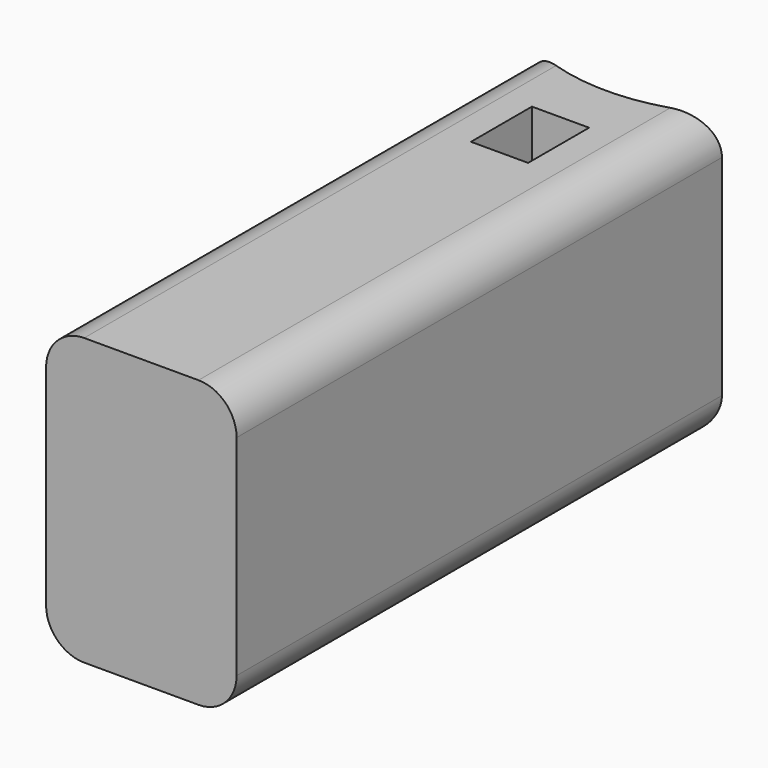
from build123d import *

# Parameters (mm, degrees)
F0_W     = 25.4
F0_H     = 82.55
F1_DEPTH = 38.1
F3_DEPTH = 76.2
F4_W     = 7.62
F4_H     = 10.16
F5_DEPTH = 25.4
F6_R     = 5.08


with BuildPart() as f1:
    # F0 (on Top) → F1 (new body)
    with BuildSketch(Plane.XY):
        with Locations((12.7, -41.275)):
            Rectangle(F0_W, F0_H)
    extrude(amount=F1_DEPTH)

    # F2 (on face) → F3 (cut)
    with BuildSketch(Plane.XY.offset(38.1)):
        with BuildLine():
            ThreePointArc((25.4, -1.677045), (34.697045, 7.62), (38.1, 20.32))
            ThreePointArc((38.1, 20.32), (0, 42.317045), (0, -1.677045))
            Line((0, -1.677045), (0, 0))
            Line((0, 0), (25.4, 0))
            Line((25.4, 0), (25.4, -1.677045))
        make_face()
        with BuildLine():
            Line((0, 0), (0, -1.677045))
            ThreePointArc((0, -1.677045), (12.7, -5.08), (25.4, -1.677045))
            Line((25.4, -1.677045), (25.4, 0))
            Line((25.4, 0), (0, 0))
        make_face()
    extrude(amount=-F3_DEPTH, mode=Mode.SUBTRACT)

    # F4 (on face) → F5 (cut)
    with BuildSketch(Plane.XY.offset(38.1)):
        with Locations((12.7, -17.78)):
            Rectangle(F4_W, F4_H)
    extrude(amount=-F5_DEPTH, mode=Mode.SUBTRACT)

    # F6
    f6_edges = [f1.edges().sort_by_distance(p)[0] for p in [
        (0, -42.113523, 38.1),
        (0, -42.113523, 0),
        (25.4, -42.113523, 38.1),
        (25.4, -42.113523, 0),
    ]]
    fillet(f6_edges, radius=F6_R)


solid = f1.part
